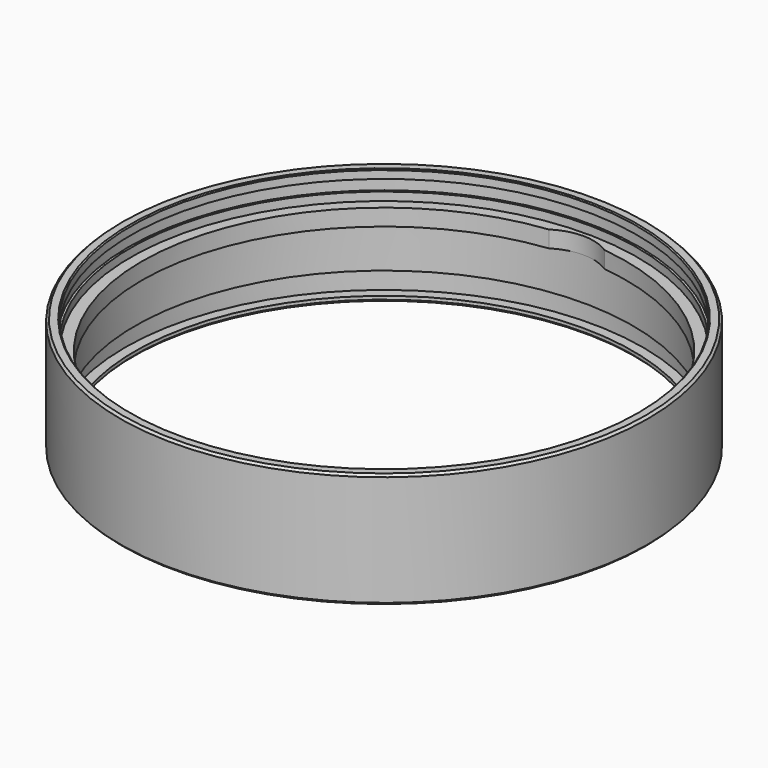
from build123d import *

# Parameters (mm, degrees)
F2_SIZE  = 1
F3_SIZE  = 2
F5_DEPTH = 100


with BuildPart() as f1:
    # F0 (on Front) → F1 (revolve)
    with BuildSketch(Plane.XZ):
        Polygon((237.5, -103.5), (237.5, 0), (228, 0), (228, -8), (230, -8), (230, -18), (228, -18), (228, -25.5), (218, -25.5), (218, -40.5), (224, -40.5), (224, -78.5), (233, -78.5), (233, -98.5), (224, -98.5), (224, -103.5), align=None)
    revolve(axis=Axis((0, 0, -40.326346), (0, 0, -1)))

    # F2
    f2_edges = [f1.edges().sort_by_distance(p)[0] for p in [
        (-228, 0, 0),
    ]]
    chamfer(f2_edges, length=F2_SIZE)

    # F3
    f3_edges = [f1.edges().sort_by_distance(p)[0] for p in [
        (-237.5, 0, 0),
        (-224, 0, -103.5),
        (-237.5, 0, -103.5),
    ]]
    chamfer(f3_edges, length=F3_SIZE)

    # F4 (on Top) → F5 (cut, symmetric)
    with BuildSketch(Plane.XY):
        with BuildLine():
            ThreePointArc((-24.999351, 216.561844), (0, 218), (24.999351, 216.561844))
            ThreePointArc((24.999351, 216.561844), (0, 224), (-24.999351, 216.561844))
        make_face()
        with BuildLine():
            ThreePointArc((-24.999351, -216.561844), (0, -224), (24.999351, -216.561844))
            ThreePointArc((24.999351, -216.561844), (0, -218), (-24.999351, -216.561844))
        make_face()
    extrude(amount=F5_DEPTH, both=True, mode=Mode.SUBTRACT)


solid = f1.part
